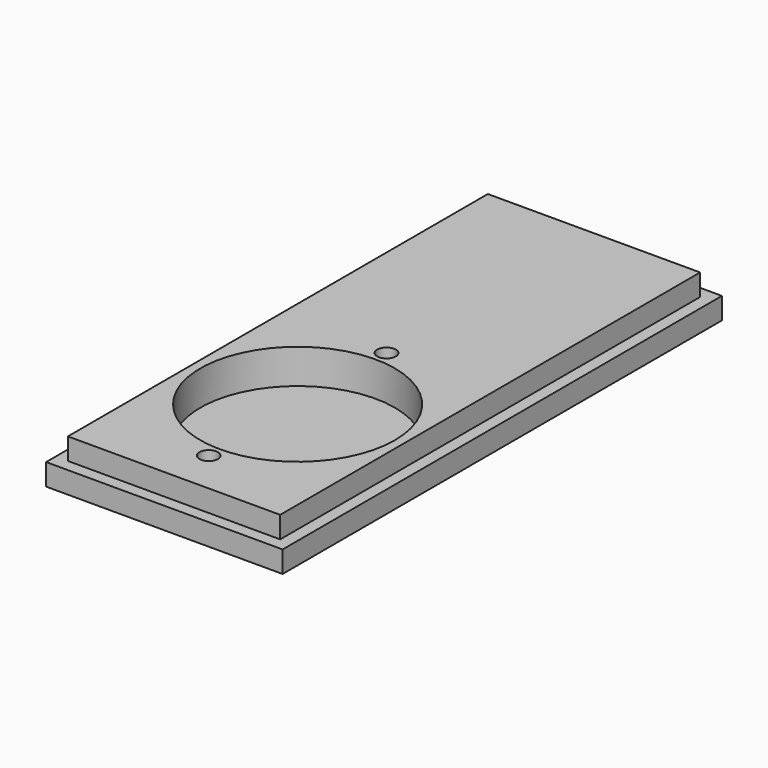
from build123d import *

# Parameters (mm, degrees)
SKETCH_W      = 54.7
SKETCH_H      = 127
PAD_DEPTH     = 5
SKETCH001_R   = 2.15
SKETCH001_R_2 = 22.5
PAD001_DEPTH  = 5
SKETCH002_R   = 2.15
SKETCH002_R_2 = 22.5
POCKET_DEPTH  = 3


with BuildPart() as part:
    # Sketch → Pad (new body)
    with BuildSketch(Plane.XY):
        with Locations((27.35, 63.5)):
            Rectangle(SKETCH_W, SKETCH_H)
    extrude(amount=-PAD_DEPTH)

    # Sketch001 → Pad001 (join)
    with BuildSketch(Plane.XY):
        Polygon((2.8, 2.8), (51.9, 2.8), (51.9, 74.2), (51.9, 124.2), (2.8, 124.2), (2.8, 74.2), align=None)
        with Locations((27.35, 12.823933)):
            Circle(SKETCH001_R, mode=Mode.SUBTRACT)
        with Locations((27.35, 64.223933)):
            Circle(SKETCH001_R, mode=Mode.SUBTRACT)
        with Locations((27.35, 38.523933)):
            Circle(SKETCH001_R_2, mode=Mode.SUBTRACT)
    extrude(amount=PAD001_DEPTH)

    # Sketch002 → Pocket (cut)
    with BuildSketch(Plane.XY):
        with Locations((27.35, 12.823933)):
            Circle(SKETCH002_R)
        with Locations((27.35, 64.223933)):
            Circle(SKETCH002_R)
        with Locations((27.35, 38.523933)):
            Circle(SKETCH002_R_2)
    extrude(amount=-POCKET_DEPTH, mode=Mode.SUBTRACT)


solid = part.part
